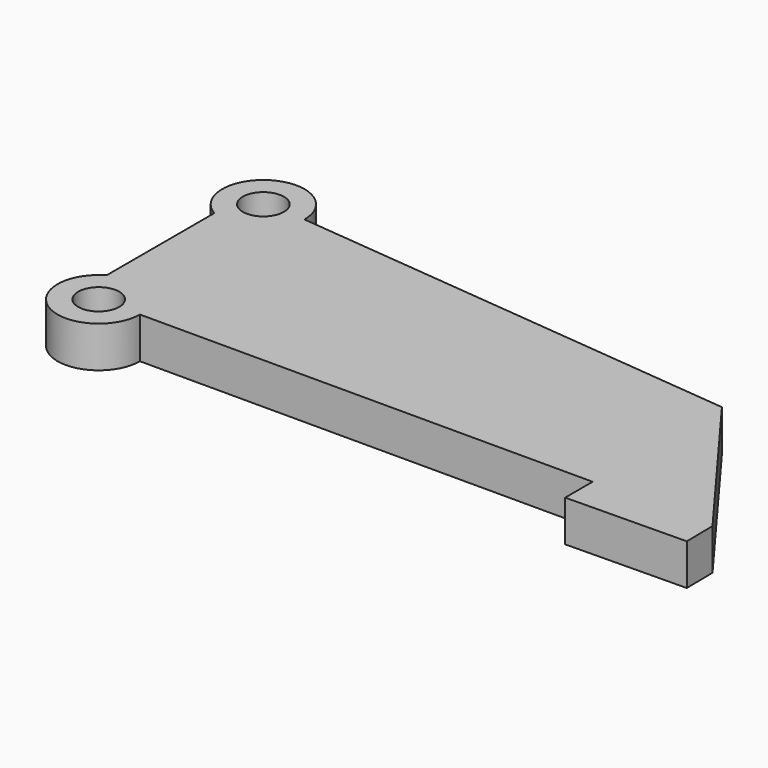
from build123d import *

# Parameters (mm, degrees)
F1_DEPTH = 6.35


with BuildPart() as f1:
    # F0 (on Top) → F1 (new body, symmetric)
    with BuildSketch(Plane.XY):
        with BuildLine():
            Line((-6.35, 0), (-12.7, 0))
            ThreePointArc((-12.7, 0), (0, -12.7), (12.7, 0))
            Line((12.7, 0), (6.35, 0))
            ThreePointArc((6.35, 0), (0, -6.35), (-6.35, 0))
        make_face()
        with BuildLine():
            ThreePointArc((-6.35, 10.9985226281), (-10.9985226281, 6.35), (-12.7, 0))
            Line((-12.7, 0), (-6.35, 0))
            Line((-6.35, 0), (-6.35, 10.9985226281))
        make_face()
        with BuildLine():
            Line((6.35, 0), (12.7, 0))
            ThreePointArc((12.7, 0), (8.9802561211, 8.9802561211), (0, 12.7))
            Line((0, 12.7), (0, 6.35))
            ThreePointArc((0, 6.35), (4.4901280605, 4.4901280605), (6.35, 0))
        make_face()
        with BuildLine():
            ThreePointArc((0, 12.7), (8.9802561211, 8.9802561211), (12.7, 0))
            Line((12.7, 0), (152.4, 0))
            Line((152.4, 0), (152.4, -10.593386367))
            Line((152.4, -10.593386367), (189.5293236064, -10.0798546172))
            Line((189.5293236064, -10.0798546172), (189.3899102028, 0))
            Line((189.3899102028, 0), (152.4, 49.8687140644))
            Line((152.4, 49.8687140644), (12.7, 63.5))
            ThreePointArc((12.7, 63.5), (8.9802561211, 54.5197438789), (0, 50.8))
            Line((0, 50.8), (0, 12.7))
        make_face()
        with BuildLine():
            Line((-6.35, 52.5014773719), (-6.35, 10.9985226281))
            ThreePointArc((-6.35, 10.9985226281), (-3.2870018728, 12.2672579939), (0, 12.7))
            Line((0, 12.7), (0, 50.8))
            ThreePointArc((0, 50.8), (-3.2870018728, 51.2327420061), (-6.35, 52.5014773719))
        make_face()
        with BuildLine():
            ThreePointArc((0, 12.7), (-3.2870018728, 12.2672579939), (-6.35, 10.9985226281))
            Line((-6.35, 10.9985226281), (-6.35, 0))
            ThreePointArc((-6.35, 0), (-4.4901280605, 4.4901280605), (0, 6.35))
            Line((0, 6.35), (0, 12.7))
        make_face()
        with BuildLine():
            ThreePointArc((12.7, 63.5), (-6.35, 74.4985226281), (-6.35, 52.5014773719))
            ThreePointArc((-6.35, 52.5014773719), (-3.2870018728, 51.2327420061), (0, 50.8))
            ThreePointArc((0, 50.8), (8.9802561211, 54.5197438789), (12.7, 63.5))
        make_face()
        with BuildLine():
            ThreePointArc((6.35, 63.5), (4.4901280605, 59.0098719395), (0, 57.15))
            ThreePointArc((0, 57.15), (-4.4901280605, 67.9901280605), (6.35, 63.5))
        make_face(mode=Mode.SUBTRACT)
    extrude(amount=F1_DEPTH, both=True)


solid = f1.part
